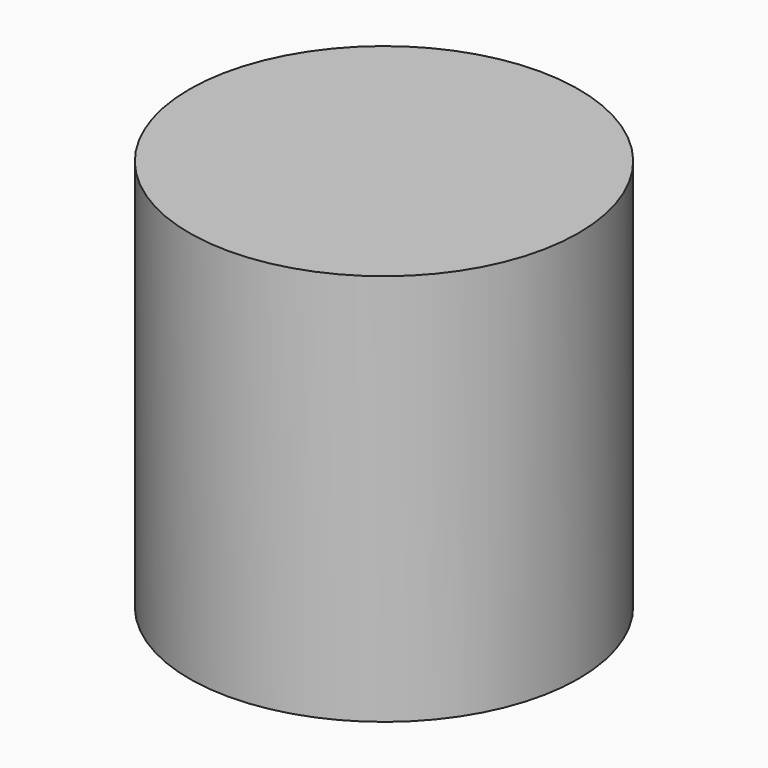
from build123d import *

# Parameters (mm, degrees)
F0_R     = 3.1496
F0_R_2   = 1.905
F1_DEPTH = 1.778
F2_DEPTH = 6.35
F3_R     = 3.070911
F4_DEPTH = 1.25


with BuildPart() as f1:
    # F0 (on Top) → F1 (new body)
    with BuildSketch(Plane.XY):
        Circle(F0_R)
        Circle(F0_R_2, mode=Mode.SUBTRACT)
    extrude(amount=F1_DEPTH)

    # F0 (on Top) → F2 (join)
    with BuildSketch(Plane.XY):
        Circle(F0_R)
        Circle(F0_R_2, mode=Mode.SUBTRACT)
    extrude(amount=F2_DEPTH)

    # F3 (on face) → F4 (join)
    with BuildSketch(Plane.XY.offset(6.35)):
        Circle(F3_R)
    extrude(amount=-F4_DEPTH)


solid = f1.part
